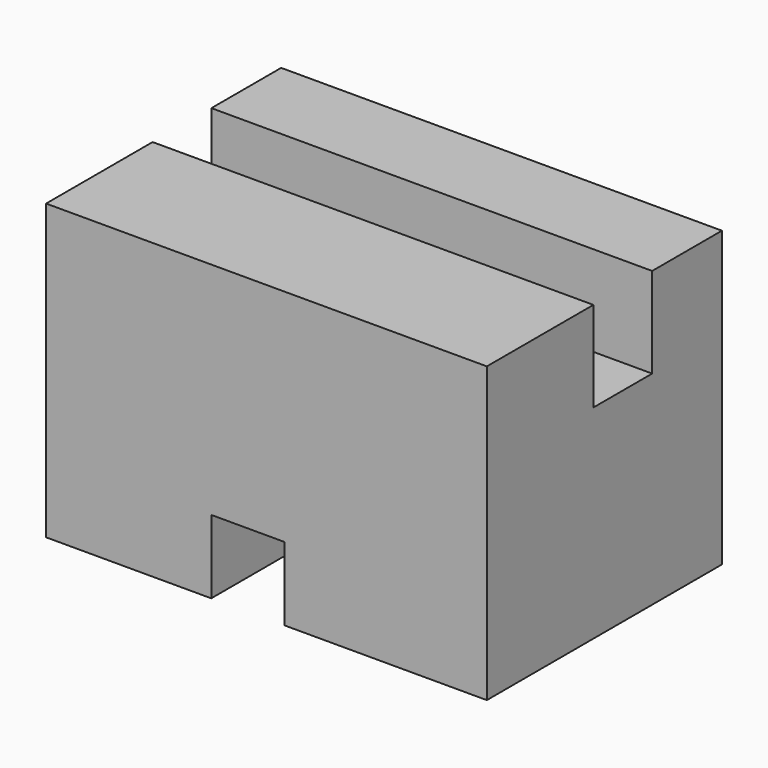
from build123d import *

# Parameters (mm, degrees)
F0_W     = 38.1
F0_H     = 25.4
F1_DEPTH = 25.4
F3_W     = 6.35
F3_H     = 7.8098609388
F4_DEPTH = 38.101
F5_W     = 6.35
F5_H     = 6.35
F6_DEPTH = 25.401


with BuildPart() as f1:
    # F0 (on Front) → F1 (new body)
    with BuildSketch(Plane.XZ):
        with Locations((-19.05, 12.7)):
            Rectangle(F0_W, F0_H)
    extrude(amount=F1_DEPTH)

    # F3 (on face) → F4 (cut, through all)
    with BuildSketch(Plane(origin=(-38.1, 0, 0), x_dir=(0, -1, 0), z_dir=(-1, 0, 0))):
        with Locations((10.7136315584, 21.4950695306)):
            Rectangle(F3_W, F3_H)
    extrude(amount=-F4_DEPTH, mode=Mode.SUBTRACT)

    # F5 (on face) → F6 (cut, through all)
    with BuildSketch(Plane.XZ.offset(25.4)):
        with Locations((-20.6470728934, 3.175)):
            Rectangle(F5_W, F5_H)
    extrude(amount=-F6_DEPTH, mode=Mode.SUBTRACT)


solid = f1.part
